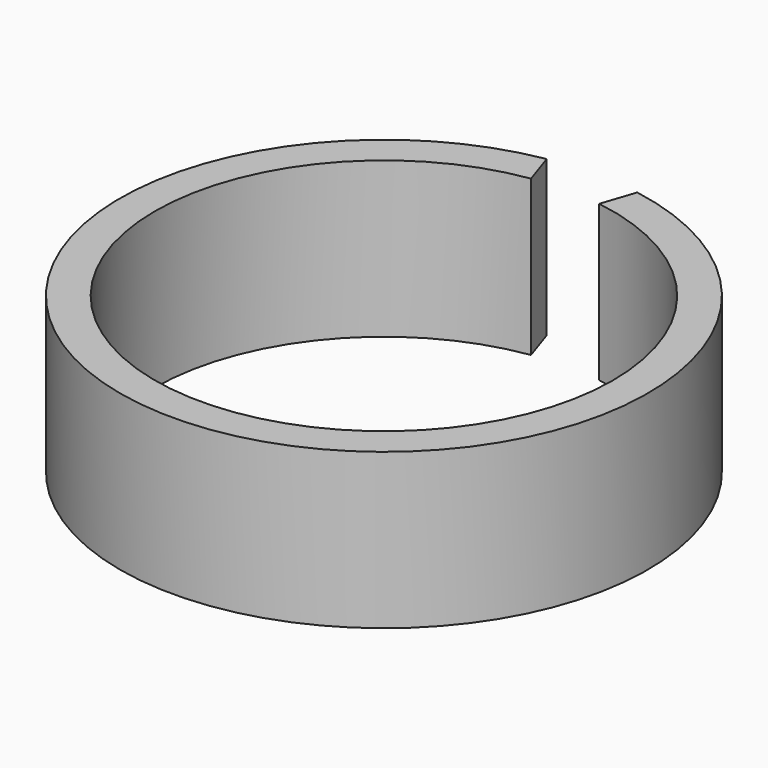
from build123d import *

# Parameters (mm, degrees)
PAD001_DEPTH = 10
SKETCH_R     = 17
PAD_DEPTH    = 10
SKETCH001_R  = 14.75
POCKET_DEPTH = 10


with BuildPart() as adapter_ring_cutout:
    # Sketch002 → Pad001 (new body)
    with BuildSketch(Plane.XY):
        Polygon((-3, 17), (3, 17), (2, 14), (-2, 14), align=None)
    extrude(amount=PAD001_DEPTH)


with BuildPart() as cut:
    # Sketch → Pad (new body)
    with BuildSketch(Plane.XY):
        Circle(SKETCH_R)
    extrude(amount=PAD_DEPTH)

    # Sketch001 (on Face3 of Pad) → Pocket (cut)
    with BuildSketch(Plane.XY.offset(10)):
        Circle(SKETCH001_R)
    extrude(amount=-POCKET_DEPTH, mode=Mode.SUBTRACT)

    # Cut: cut adapter ring cutout
    add(adapter_ring_cutout.part, mode=Mode.SUBTRACT)


solid = cut.part
